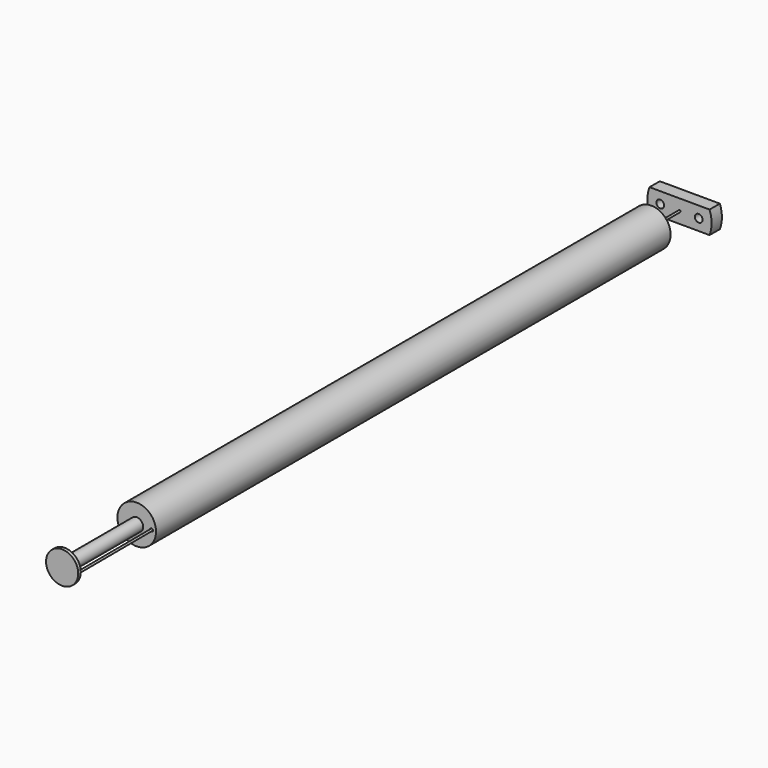
from build123d import *

# Parameters (mm, degrees)
F0_R      = 2.5
F1_DEPTH  = 0.5
F2_R      = 1
F2_R_2    = 0.7
F3_DEPTH  = 14
F5_DEPTH  = 0.5
F6_R      = 0.15
F7_R      = 3
F7_R_2    = 2.5
F10_DEPTH = 100
F11_R     = 0.6
F12_DEPTH = 2


with BuildPart() as f1:
    # F0 (on Front) → F1 (new body)
    with BuildSketch(Plane.XZ):
        Circle(F0_R)
    extrude(amount=F1_DEPTH)

    # F2 (on face) → F3 (join)
    with BuildSketch(Plane(origin=(0, 0, 0), x_dir=(-1, 0, 0), z_dir=(0, 1, 0))):
        Circle(F2_R)
        Circle(F2_R_2, mode=Mode.SUBTRACT)
    extrude(amount=F3_DEPTH)

    # F4 (on face) → F5 (join)
    with BuildSketch(Plane(origin=(0, 14, 0), x_dir=(-1, 0, 0), z_dir=(0, 1, 0))):
        with BuildLine():
            ThreePointArc((-2.49769, 0.107441), (-2.075, 0), (-2.49769, -0.107441))
            ThreePointArc((-2.49769, -0.107441), (2.5, 0), (-2.49769, 0.107441))
        make_face()
    extrude(amount=F5_DEPTH)

    # F9: sweep along a path in F8
    with BuildLine(Plane.XY) as f9_path:
        Line((2.35, 0), (2.286365, 14.495411))
        ThreePointArc((2.286365, 14.495411), (2.286324, 14.5), (2.286241, 14.504588))
        Line((2.286241, 14.504588), (0.000129, 114.994315))
        ThreePointArc((0.000129, 114.994315), (3.2e-05, 115), (0, 115.005687))
        Line((0, 115.005687), (0, 121.5))
    # F6 (on face) → F9 (sweep)
    with BuildSketch(Plane(origin=(0, 0, 0), x_dir=(-1, 0, 0), z_dir=(0, 1, 0))):
        with Locations((-2.35, 0)):
            Circle(F6_R)
    sweep(path=f9_path.line)

    # F7 (on face) → F10 (join)
    with BuildSketch(Plane.XZ.offset(-14)):
        Circle(F7_R)
        Circle(F7_R_2, mode=Mode.SUBTRACT)
    extrude(amount=-F10_DEPTH)

    # F11 (on face) → F12 (join)
    with BuildSketch(Plane(origin=(0.533374, 121.497658, 0), x_dir=(-0.99999, 0.00439, 0), z_dir=(0.00439, 0.99999, 0))):
        with BuildLine():
            Line((5.217127, 1.75), (-4.15037, 1.75))
            ThreePointArc((-4.15037, 1.75), (-4.466621, 0), (-4.15037, -1.75))
            Line((-4.15037, -1.75), (5.217127, -1.75))
            ThreePointArc((5.217127, -1.75), (5.533379, 0), (5.217127, 1.75))
        make_face()
        with Locations((-2.466621, 0)):
            Circle(F11_R, mode=Mode.SUBTRACT)
        with Locations((3.533379, 0)):
            Circle(F11_R, mode=Mode.SUBTRACT)
    extrude(amount=-F12_DEPTH)


solid = f1.part
